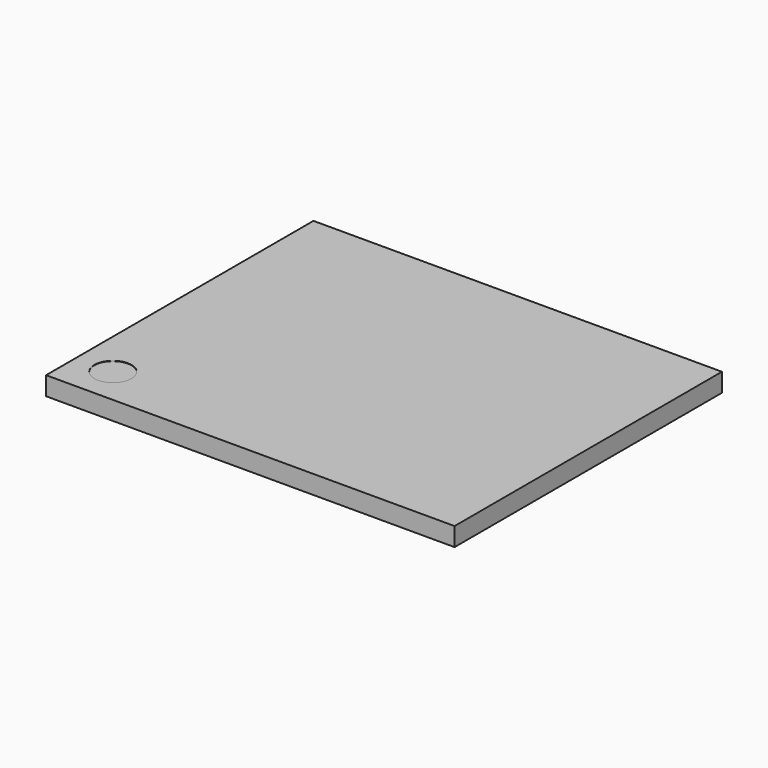
from build123d import *

# Parameters (mm, degrees)
CYLINDER026_R          = 0.5
CYLINDER026_DEPTH      = 0.01
BOX071_W               = 9
BOX071_H               = 11
BOX071_DEPTH           = 0.5
CUT019_PLACEMENT_ANGLE = 90


with BuildPart() as cylinder026:
    # Cylinder026 → Cylinder026 (new body)
    with BuildSketch(Plane(origin=(1, 10, 0.49), x_dir=(1, 0, 0), z_dir=(0, 0, 1))):
        Circle(CYLINDER026_R)
    extrude(amount=CYLINDER026_DEPTH)


with BuildPart() as obj1:
    # Box071 → Box071 (new body)
    with BuildSketch(Plane.XY):
        with Locations((4.5, 5.5)):
            Rectangle(BOX071_W, BOX071_H)
    extrude(amount=BOX071_DEPTH)

    # Cut019: cut Cylinder026
    add(cylinder026.part, mode=Mode.SUBTRACT)


with BuildPart() as obj1_1:
    # Cut019 placement: moved
    add(obj1.part.moved(Location((6.24, 9.63, 20))).rotate(Axis((6.24, 9.63, 20), (0, 0, 1)), CUT019_PLACEMENT_ANGLE))


solid = obj1_1.part
